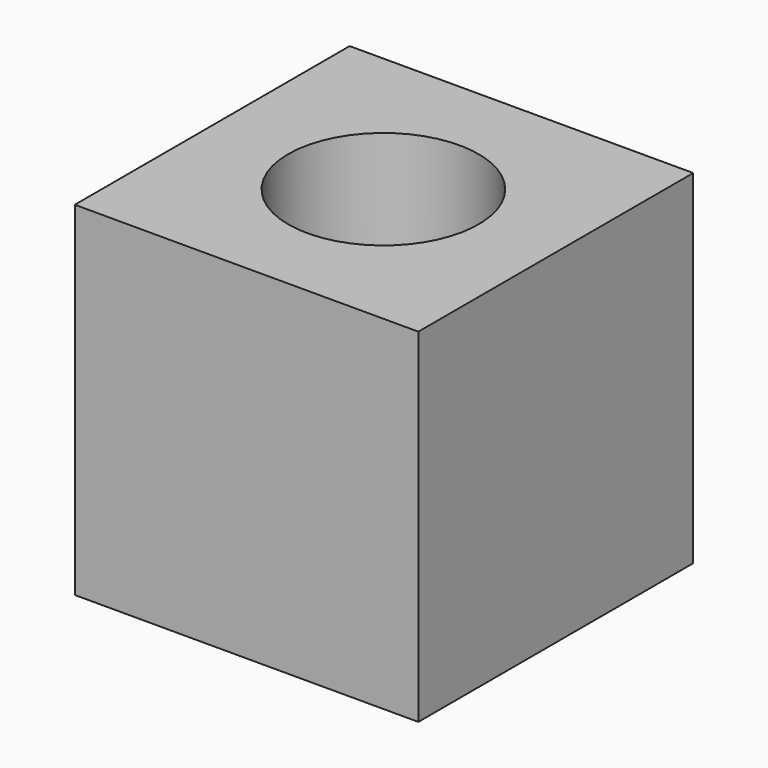
from build123d import *

# Parameters (mm, degrees)
F1_W     = 50
F1_H     = 50
F2_DEPTH = 50
F4_D     = 27.7
F4_DEPTH = 30
F4_TIP   = 8.3219195735


with BuildPart() as f2:
    # F1 (on face) → F2 (new body)
    with BuildSketch(Plane.XZ):
        with Locations((25, 25)):
            Rectangle(F1_W, F1_H)
    extrude(amount=F2_DEPTH)

    # F4
    with Locations(Plane.XY.offset(50)):
        with Locations((25, -25.1106228679)):
            Hole(F4_D / 2, depth=F4_DEPTH)
            with Locations((0, 0, -(F4_DEPTH + F4_TIP / 2))):  # 118° drill point
                Cone(0, F4_D / 2, F4_TIP, mode=Mode.SUBTRACT)


solid = f2.part
